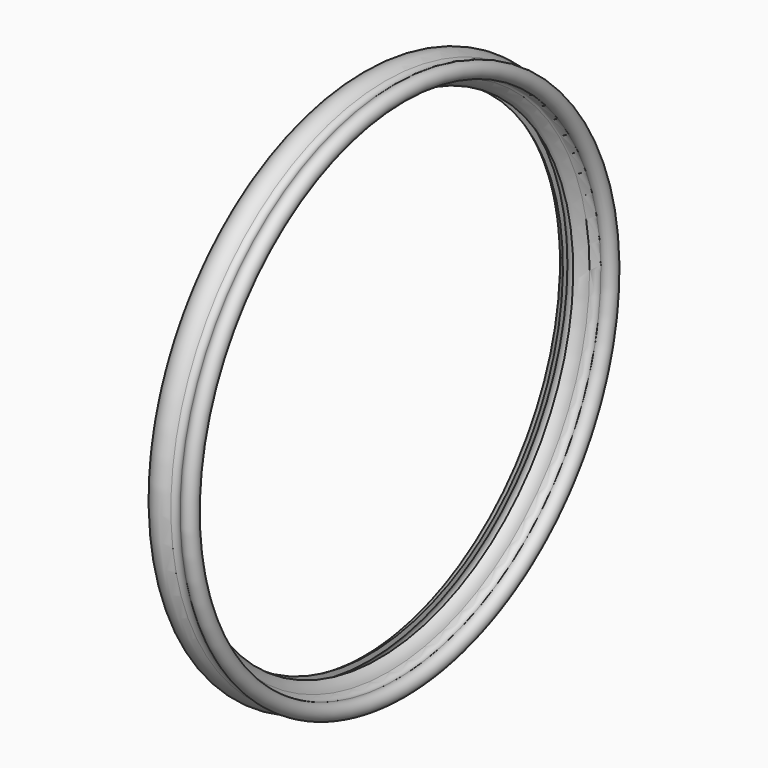
from build123d import *

# Parameters (mm, degrees)
F0_R = 1


with BuildPart() as f1:
    # F0 (on Front) → F1 (revolve)
    with BuildSketch(Plane.XZ):
        with BuildLine():
            ThreePointArc((-2, -3.464102), (0, 4), (2, -3.464102))
            Line((2, -3.464102), (2, -5.656854))
            ThreePointArc((2, -5.656854), (4.173542, -4.310632), (5.589285, -2.181718))
            ThreePointArc((5.589285, -2.181718), (6.932588, -0.793234), (8.864447, -0.776782))
            ThreePointArc((8.864447, -0.776782), (12.941742, 2.588348), (7.883804, 4.126433))
            ThreePointArc((7.883804, 4.126433), (6.094222, 3.398596), (4.320217, 4.163619))
            ThreePointArc((4.320217, 4.163619), (-5.045421, 3.24711), (-2, -5.656854))
            Line((-2, -5.656854), (-2, -3.464102))
        make_face()
        with Locations((10, 2)):
            Circle(F0_R, mode=Mode.SUBTRACT)
    revolve(axis=Axis((14.741977, 0, -100), (1, 0, 0)))


solid = f1.part
